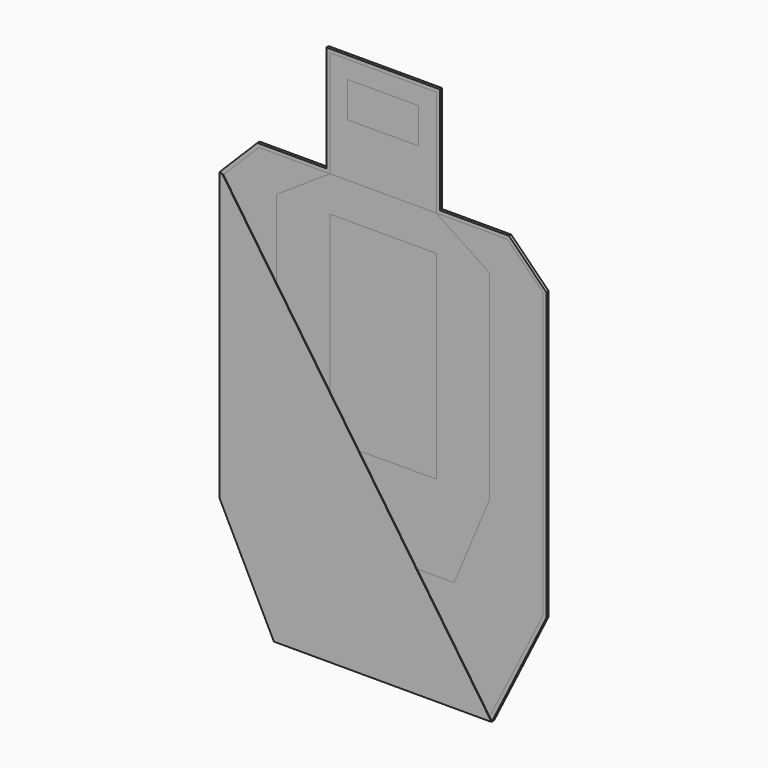
from build123d import *

# Parameters (mm, degrees)
F1_DEPTH  = 3
F2_W      = 150
F2_H      = 150
F3_DEPTH  = 3
F4_W      = 150
F4_H      = 280
F5_DEPTH  = 3
F6_W      = 150
F6_H      = 280
F7_DEPTH  = 3
F9_DEPTH  = 3
F11_DEPTH = 3
F13_DEPTH = 1
F15_DEPTH = 1
F17_DEPTH = 1


with BuildPart() as f1:
    # F0 (on Front) → F1 (new body)
    with BuildSketch(Plane.XZ):
        Polygon((50, 125), (0, 125), (-50, 125), (-50, 100), (-50, 75), (0, 75), (50, 75), (50, 100), align=None)
    extrude(amount=-F1_DEPTH)


with BuildPart() as f3:
    # F2 (on Front) → F3 (new body)
    with BuildSketch(Plane.XZ):
        with Locations((0, 75)):
            Rectangle(F2_W, F2_H)
        Polygon((-50, 125), (0, 125), (50, 125), (50, 100), (50, 75), (0, 75), (-50, 75), (-50, 100), align=None, mode=Mode.SUBTRACT)
    extrude(amount=-F3_DEPTH)


with BuildPart() as f5:
    # F4 (on Front) → F5 (new body)
    with BuildSketch(Plane.XZ):
        with Locations((0, -190)):
            Rectangle(F4_W, F4_H)
    extrude(amount=-F5_DEPTH)


with BuildPart() as f7:
    # F6 (on Front) → F7 (new body)
    with BuildSketch(Plane.XZ):
        Polygon((75, 0), (-75, 0), (-150, -50), (-150, -330), (-100, -450), (100, -450), (150, -330), (150, -50), align=None)
        with Locations((0, -190)):
            Rectangle(F6_W, F6_H, mode=Mode.SUBTRACT)
    extrude(amount=-F7_DEPTH)


with BuildPart() as f9:
    # F8 (on face) → F9 (new body)
    with BuildSketch(Plane.XZ):
        Polygon((175, 0), (75, 0), (150, -50), (150, -330), (100, -450), (-100, -450), (-150, -330), (-150, -50), (-75, 0), (-175, 0), (-225, -50), (-225, -450), (-150, -600), (150, -600), (225, -450), (225, -50), align=None)
    extrude(amount=-F9_DEPTH)


with BuildPart() as f11:
    # F10 (on face) → F11 (new body)
    with BuildSketch(Plane.XZ):
        Polygon((230, -47.928932), (177.071068, 5), (80, 5), (80, 155), (-80, 155), (-80, 5), (-177.071068, 5), (-230, -47.928932), (-230, -451.18034), (-153.09017, -605), (153.09017, -605), (230, -451.18034), align=None)
        Polygon((-75, 150), (75, 150), (75, 0), (175, 0), (225, -50), (225, -450), (150, -600), (-150, -600), (-225, -450), (-225, -50), (-175, 0), (-75, 0), align=None, mode=Mode.SUBTRACT)
    extrude(amount=-F11_DEPTH)


with BuildPart() as f13:
    # F12 (on face) → F13 (new body)
    with BuildSketch(Plane(origin=(0, 3, 0), x_dir=(-1, 0, 0), z_dir=(0, 1, 0))):
        Polygon((75, 0), (75, 150), (-75, 150), (-75, 0), (-175, 0), (-225, -50), (-225, -450), (-150, -600), (150, -600), (225, -450), (225, -50), (175, 0), align=None)
    extrude(amount=F13_DEPTH)


with BuildPart() as f15:
    # F14 (on face) → F15 (new body)
    with BuildSketch(Plane(origin=(0, 4, 0), x_dir=(-1, 0, 0), z_dir=(0, 1, 0))):
        Polygon((80, 155), (-80, 155), (-80, 5), (-177.071068, 5), (-230, -47.928932), (-230, -451.18034), (-153.09017, -605), (153.09017, -605), (230, -451.18034), (230, -47.928932), (177.071068, 5), (80, 5), align=None)
        Polygon((-75, 0), (-75, 150), (75, 150), (75, 0), (175, 0), (225, -50), (225, -450), (150, -600), (-150, -600), (-225, -450), (-225, -50), (-175, 0), align=None, mode=Mode.SUBTRACT)
    extrude(amount=-F15_DEPTH)


with BuildPart() as f17:
    # F16 (on face) → F17 (new body)
    with BuildSketch(Plane.XZ):
        Polygon((-230, -451.18034), (-153.09017, -605), (153.09017, -605), (150, -600), (-225, -50), (-230, -47.928932), align=None)
    extrude(amount=F17_DEPTH)


solid = Compound([f1.part, f3.part, f5.part, f7.part, f9.part, f11.part, f13.part, f15.part, f17.part])
